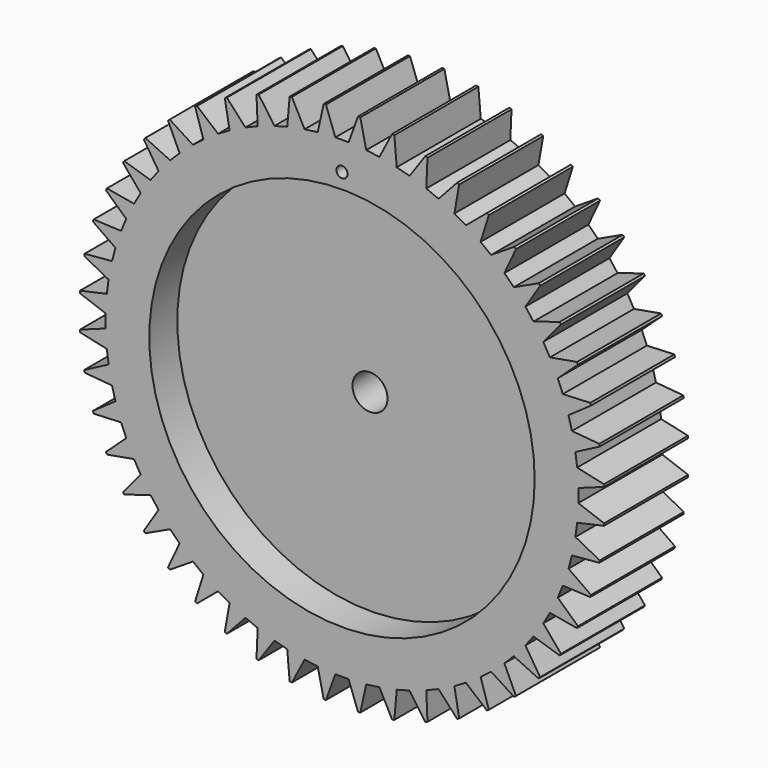
from build123d import *

# Parameters (mm, degrees)
F0_R     = 60
F0_R_2   = 4
F0_R_3   = 1.2679965257
F1_DEPTH = 12
F3_DEPTH = 12
F4_COUNT = 48
F5_R     = 44.0278716463
F5_R_2   = 4
F6_DEPTH = 8
F7_R     = 44.0278716463
F7_R_2   = 10.9546651888
F8_DEPTH = 8


with BuildPart() as f1:
    # F0 (on Front) → F1 (new body, symmetric)
    with BuildSketch(Plane.XZ):
        Circle(F0_R)
        Circle(F0_R_2, mode=Mode.SUBTRACT)
        with Locations((0, 47.5149452686)):
            Circle(F0_R_3, mode=Mode.SUBTRACT)
    extrude(amount=F1_DEPTH, both=True)

    # F2 (on Front) → F3 (cut, symmetric)
    with BuildSketch(Plane.XZ):
        with BuildLine():
            Line((-1.5161785944, 53.989744611), (1.5161785944, 53.989744611))
            Line((1.5161785944, 53.989744611), (3.6629980771, 59.8880826633))
            ThreePointArc((3.6629980771, 59.8880826633), (0, 60), (-3.6629980771, 59.8880826633))
            Line((-3.6629980771, 59.8880826633), (-1.5161785944, 53.989744611))
        make_face()
        with BuildLine():
            ThreePointArc((-3.6629980771, 59.8880826633), (0, 60), (3.6629980771, 59.8880826633))
            Line((3.6629980771, 59.8880826633), (3.7, 59.989744611))
            ThreePointArc((3.7, 59.989744611), (0, 60.1297868356), (-3.7, 59.989744611))
            Line((-3.7, 59.989744611), (-3.6629980771, 59.8880826633))
        make_face()
    f3 = extrude(amount=F3_DEPTH, both=True, mode=Mode.SUBTRACT)

    # F4: F3 ×48 about axis
    f4_axis = Axis((0, 0, 0), (0, -1, 0))
    for i in range(1, F4_COUNT):
        add(f3.rotate(f4_axis, i * 360 / F4_COUNT), mode=Mode.SUBTRACT)

    # F5 (on face) → F6 (cut)
    with BuildSketch(Plane.XZ.offset(12)):
        Circle(F5_R)
        Circle(F5_R_2, mode=Mode.SUBTRACT)
    extrude(amount=-F6_DEPTH, mode=Mode.SUBTRACT)

    # F7 (on face) → F8 (cut)
    with BuildSketch(Plane(origin=(0, 12, 0), x_dir=(-1, 0, 0), z_dir=(0, 1, 0))):
        Circle(F7_R)
        Circle(F7_R_2, mode=Mode.SUBTRACT)
    extrude(amount=-F8_DEPTH, mode=Mode.SUBTRACT)


solid = f1.part
